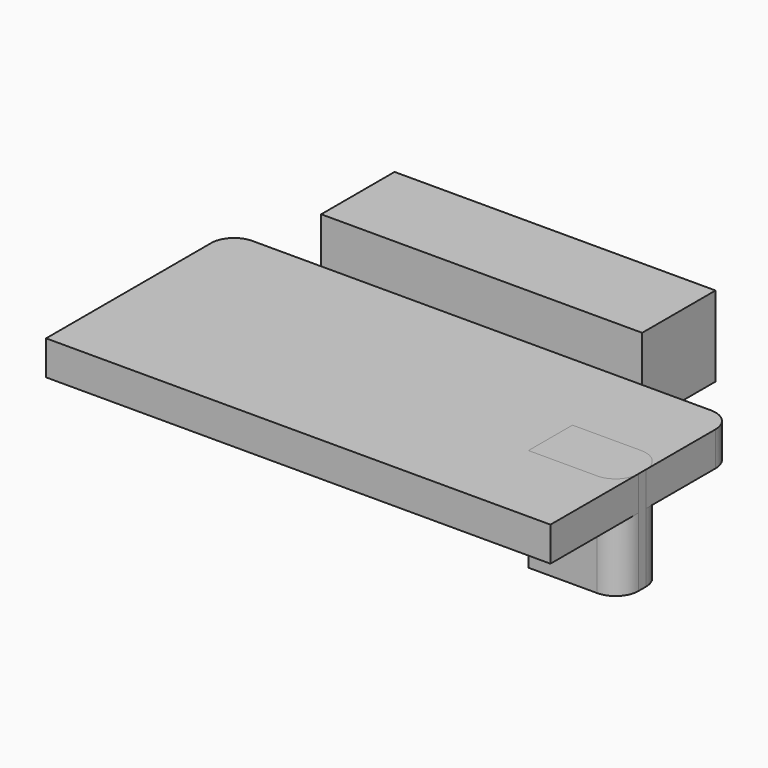
from build123d import *

# Parameters (mm, degrees)
F1_DEPTH      = 0.75
F2_DEPTH      = 0.75
F2_DEPTH_BACK = 1.5
F0_W          = 7
F0_H          = 2
F3_DEPTH      = 1.75


with BuildPart() as f1:
    # F0 (on Top) → F1 (new body)
    with BuildSketch(Plane.XY):
        with BuildLine():
            Line((-3.5, -3.5), (-3.5, 1.5))
            Line((-3.5, 1.5), (-5, 1.5))
            ThreePointArc((-5, 1.5), (-5.353553, 1.353553), (-5.5, 1))
            Line((-5.5, 1), (-5.5, -3.5))
            Line((-5.5, -3.5), (-3.5, -3.5))
        make_face()
        with BuildLine():
            Line((5, -1.6), (3.5, -1.6))
            Line((3.5, -1.6), (3.5, -3.5))
            Line((3.5, -3.5), (5.5, -3.5))
            Line((5.5, -3.5), (5.5, -1.1))
            ThreePointArc((5.5, -1.1), (5.353553, -1.453553), (5, -1.6))
        make_face()
        with BuildLine():
            Line((5, 1.5), (3.5, 1.5))
            Line((3.5, 1.5), (3.5, -0.4))
            Line((3.5, -0.4), (5, -0.4))
            ThreePointArc((5, -0.4), (5.353553, -0.546447), (5.5, -0.9))
            Line((5.5, -0.9), (5.5, 1))
            ThreePointArc((5.5, 1), (5.353553, 1.353553), (5, 1.5))
        make_face()
        Polygon((3.5, -0.4), (3.5, 1.5), (-3.5, 1.5), (-3.5, -3.5), (3.5, -3.5), (3.5, -1.6), align=None)
    extrude(amount=F1_DEPTH)


with BuildPart() as f2:
    # F0 (on Top) → F2 (new body, two sides)
    with BuildSketch(Plane.XY) as f2_sk:
        with BuildLine():
            Line((5, -0.4), (3.5, -0.4))
            Line((3.5, -0.4), (3.5, -1.6))
            Line((3.5, -1.6), (5, -1.6))
            ThreePointArc((5, -1.6), (5.353553, -1.453553), (5.5, -1.1))
            Line((5.5, -1.1), (5.5, -0.9))
            ThreePointArc((5.5, -0.9), (5.353553, -0.546447), (5, -0.4))
        make_face()
    extrude(amount=F2_DEPTH)
    extrude(f2_sk.sketch, amount=-F2_DEPTH_BACK)


with BuildPart() as f3:
    # F0 (on Top) → F3 (new body)
    with BuildSketch(Plane.XY):
        with Locations((0, 2.5)):
            Rectangle(F0_W, F0_H)
    extrude(amount=F3_DEPTH)


solid = Compound([f1.part, f2.part, f3.part])
